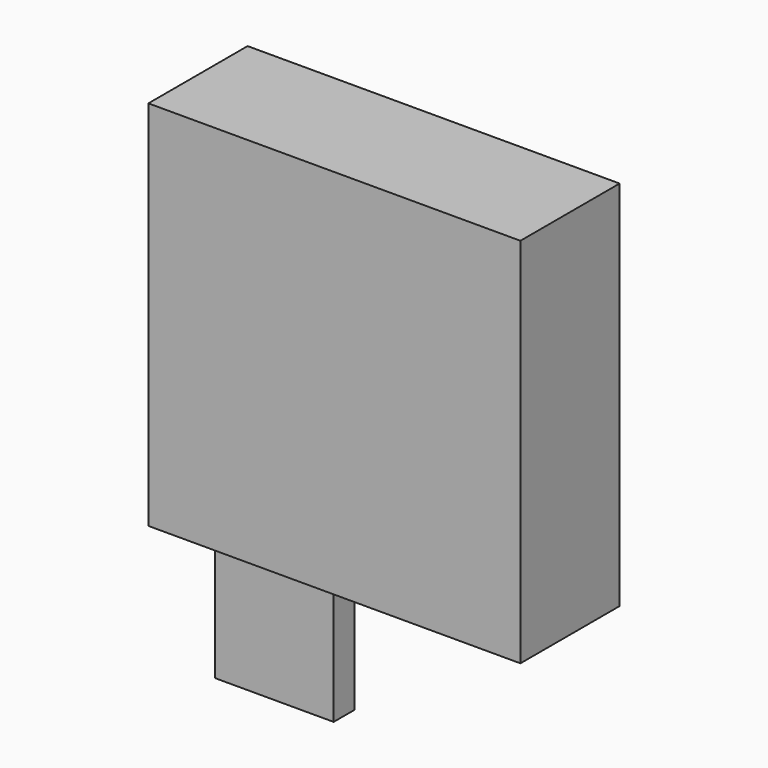
from build123d import *

# Parameters (mm, degrees)
F0_W     = 76.2
F0_H     = 76.2
F1_DEPTH = 25.4
F2_W     = 24.268436
F2_H     = 5.308717
F3_DEPTH = 25.4


with BuildPart() as f1:
    # F0 (on Front) → F1 (new body)
    with BuildSketch(Plane.XZ):
        Rectangle(F0_W, F0_H)
    extrude(amount=F1_DEPTH)

    # F2 (on face) → F3 (join)
    with BuildSketch(Plane(origin=(0, 0, -38.1), x_dir=(1, 0, 0), z_dir=(0, 0, -1))):
        with Locations((-15.167773, 19.149313)):
            Rectangle(F2_W, F2_H)
    extrude(amount=F3_DEPTH)


solid = f1.part
